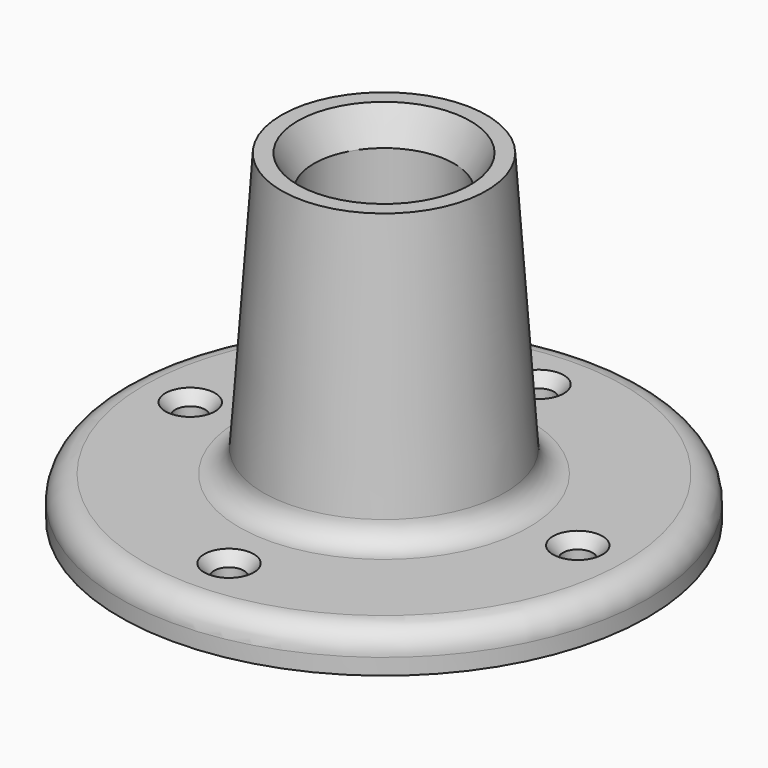
from build123d import *

# Parameters (mm, degrees)
F3_D           = 4.699
F3_CSINK_D     = 7.7978
F3_CSINK_ANGLE = 82
F4_R           = 3.81
F5_SIZE2       = 5.08
F5_SIZE        = 2.54


with BuildPart() as f1:
    # F0 (on Front) → F1 (revolve)
    with BuildSketch(Plane.XZ):
        Polygon((-41.529, 0), (-11.049, 0), (-11.049, 50.8), (-16.129, 50.8), (-19.2372467909, 6.35), (-41.529, 6.35), align=None)
    revolve(axis=Axis((0, 0, 5.6630113419), (0, 0, 1)))

    # F3 (through all)
    with Locations(Plane.XY.offset(6.35)):
        with Locations((-30.48, 0), (0, 30.48), (30.48, 0), (0, -30.48)):
            CounterSinkHole(F3_D / 2, F3_CSINK_D / 2, counter_sink_angle=F3_CSINK_ANGLE)

    # F4
    f4_edges = [f1.edges().sort_by_distance(p)[0] for p in [
        (41.529, 0, 6.35),
        (19.237247, 0, 6.35),
    ]]
    fillet(f4_edges, radius=F4_R)

    # F5
    f5_edges = [f1.edges().sort_by_distance(p)[0] for p in [
        (11.049, 0, 0),
        (11.049, 0, 50.8),
        (-11.049, 0, 25.4),
    ]]
    chamfer(f5_edges, length=F5_SIZE, length2=F5_SIZE2)


solid = f1.part
